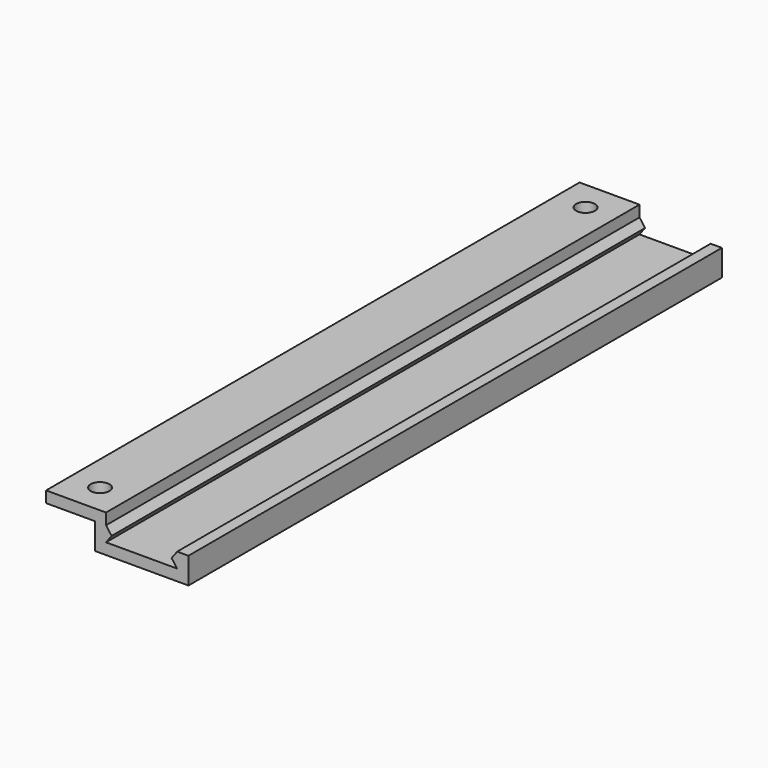
from build123d import *

# Parameters (mm, degrees)
F0_W     = 1.5
F0_H     = 2
F0_H_2   = 1.5
F0_W_2   = 6.5
F0_W_3   = 9.5
F1_DEPTH = 89
F2_R     = 1.25
F3_DEPTH = 25


with BuildPart() as f1:
    # F0 (on Front) → F1 (new body)
    with BuildSketch(Plane.XZ):
        with Locations((3.25, -1.75)):
            Rectangle(F0_W, F0_H)
        with Locations((3.25, 0)):
            Rectangle(F0_W, F0_H_2)
        Polygon((4.75, -1.75), (4, -0.75), (4, -2.75), align=None)
        with Locations((-0.75, 0)):
            Rectangle(F0_W_2, F0_H_2)
        with Locations((8.75, -3.5)):
            Rectangle(F0_W_3, F0_H_2)
        with Locations((3.25, -3.5)):
            Rectangle(F0_W, F0_H_2)
        with Locations((14.25, -1.75)):
            Rectangle(F0_W, F0_H)
        with Locations((14.25, -3.5)):
            Rectangle(F0_W, F0_H_2)
        Polygon((12.75, -1.75), (13.5, -2.75), (13.5, -0.75), align=None)
    extrude(amount=-F1_DEPTH)

    # F2 (on face) → F3 (cut)
    with BuildSketch(Plane.XY.offset(0.75)):
        with Locations((0, 4)):
            Circle(F2_R)
        with Locations((0, 85)):
            Circle(F2_R)
    extrude(amount=-F3_DEPTH, mode=Mode.SUBTRACT)


solid = f1.part
